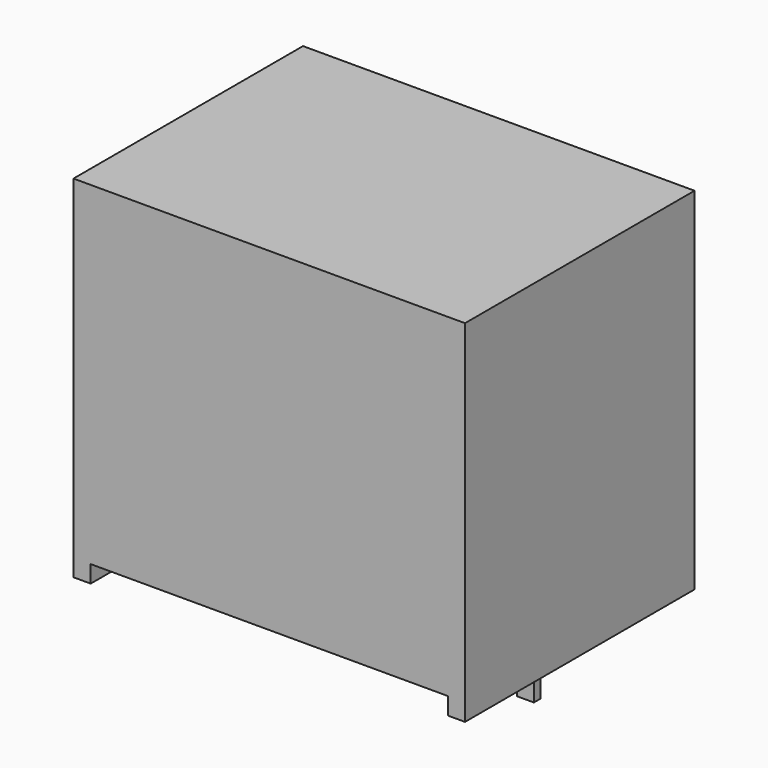
from build123d import *

# Parameters (mm, degrees)
F1_DEPTH = 4.25
F2_W     = 0.5
F2_H     = 0.25
F3_DEPTH = 3.59


with BuildPart() as f1:
    # F0 (on Front) → F1 (new body, symmetric)
    with BuildSketch(Plane.XZ):
        Polygon((5.8, 5.2), (-5.8, 5.2), (-5.8, -5.2), (-5.29, -5.2), (-5.29, -4.69), (5.29, -4.69), (5.29, -5.2), (5.8, -5.2), align=None)
    extrude(amount=F1_DEPTH, both=True)


with BuildPart() as f3:
    # F2 (on face) → F3 (new body)
    with BuildSketch(Plane(origin=(0, 0, -4.69), x_dir=(1, 0, 0), z_dir=(0, 0, -1))):
        with Locations((2.49, 2.25)):
            Rectangle(F2_W, F2_H)
        with Locations((-0.05, 2.25)):
            Rectangle(F2_W, F2_H)
        with Locations((-2.59, 2.25)):
            Rectangle(F2_W, F2_H)
    extrude(amount=F3_DEPTH)


with BuildPart() as f1_1:
    # F4: moved
    add(f1.part.moved(Location((0, 0, 5.2))))


with BuildPart() as f3_1:
    # F4: moved
    add(f3.part.moved(Location((0, 0, 5.2))))


with BuildPart() as f5_1:
    # F5: instance of F3
    add(f3_1.part.mirror(Plane.XZ))


solid = Compound([f1_1.part, f5_1.part])
